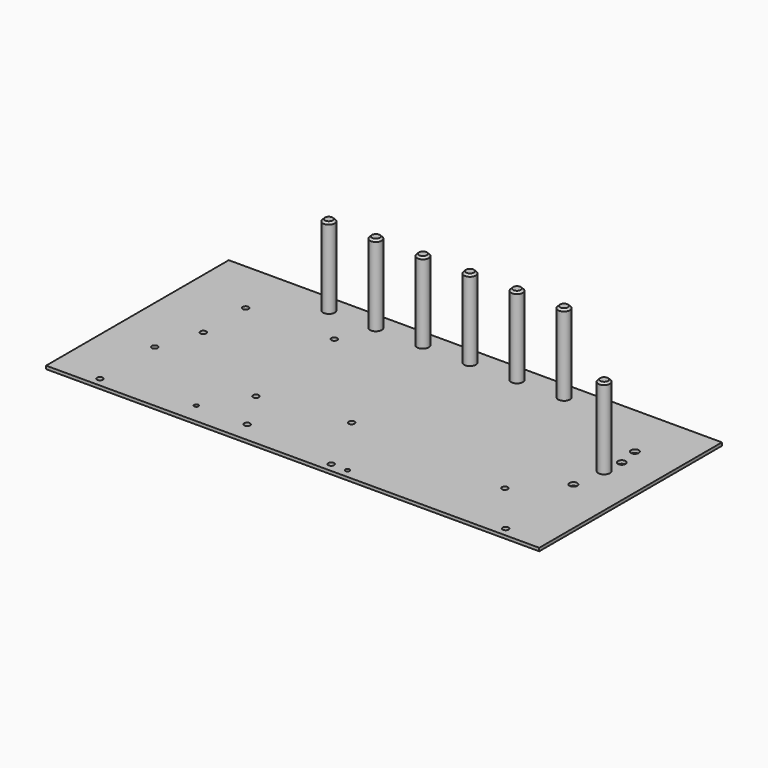
from build123d import *

# Parameters (mm, degrees)
F0_W     = 251.6
F0_H     = 116.5
F0_R     = 1.5
F0_R_2   = 1.1
F0_R_3   = 2
F1_DEPTH = 1.6
F2_R     = 3
F3_DEPTH = 41.1
F4_SIZE  = 1
F5_R     = 3
F6_DEPTH = 41.1
F7_SIZE  = 1


with BuildPart() as f1:
    # F0 (on Top) → F1 (new body)
    with BuildSketch(Plane.XY):
        with Locations((125.8, 58.25)):
            Rectangle(F0_W, F0_H)
        with Locations((23.8, 4.6)):
            Circle(F0_R, mode=Mode.SUBTRACT)
        with Locations((68.3, 10.5)):
            Circle(F0_R_2, mode=Mode.SUBTRACT)
        with Locations((94.2, 10.5)):
            Circle(F0_R, mode=Mode.SUBTRACT)
        with Locations((23.8, 39.6)):
            Circle(F0_R, mode=Mode.SUBTRACT)
        with Locations((81.8, 31.6)):
            Circle(F0_R, mode=Mode.SUBTRACT)
        with Locations((125.8, 37.6)):
            Circle(F0_R, mode=Mode.SUBTRACT)
        with Locations((141.8, 4.6)):
            Circle(F0_R, mode=Mode.SUBTRACT)
        with Locations((150.1, 4.6)):
            Circle(F0_R_2, mode=Mode.SUBTRACT)
        with Locations((230.8, 4.6)):
            Circle(F0_R, mode=Mode.SUBTRACT)
        with Locations((208.8, 31.6)):
            Circle(F0_R, mode=Mode.SUBTRACT)
        with Locations((228.046298, 51.2)):
            Circle(F0_R_3, mode=Mode.SUBTRACT)
        with Locations((31, 61.5)):
            Circle(F0_R, mode=Mode.SUBTRACT)
        with Locations((31, 88.5)):
            Circle(F0_R, mode=Mode.SUBTRACT)
        with Locations((75.4, 89.6)):
            Circle(F0_R, mode=Mode.SUBTRACT)
        with Locations((231.3, 78)):
            Circle(F0_R_3, mode=Mode.SUBTRACT)
        with Locations((229.5, 88.6)):
            Circle(F0_R_3, mode=Mode.SUBTRACT)
    extrude(amount=-F1_DEPTH)


with BuildPart() as f3:
    # F2 (on face) → F3 (new body)
    with BuildSketch(Plane.XY):
        with Locations((58.25, 107.5)):
            Circle(F2_R)
        with Locations((82.25, 107.5)):
            Circle(F2_R)
        with Locations((106.25, 107.5)):
            Circle(F2_R)
        with Locations((130.25, 107.5)):
            Circle(F2_R)
        with Locations((154.25, 107.5)):
            Circle(F2_R)
        with Locations((178.25, 107.5)):
            Circle(F2_R)
    extrude(amount=F3_DEPTH)

    # F4
    f4_edges = [f3.edges().sort_by_distance(p)[0] for p in [
        (55.25, 107.5, 41.1),
        (79.25, 107.5, 41.1),
        (103.25, 107.5, 41.1),
        (127.25, 107.5, 41.1),
        (151.25, 107.5, 41.1),
        (175.25, 107.5, 41.1),
    ]]
    chamfer(f4_edges, length=F4_SIZE)


with BuildPart() as f6:
    # F5 (on Top) → F6 (new body)
    with BuildSketch(Plane.XY):
        with Locations((230.4, 67.91)):
            Circle(F5_R)
    extrude(amount=F6_DEPTH)

    # F7
    f7_edges = [f6.edges().sort_by_distance(p)[0] for p in [
        (227.4, 67.91, 41.1),
    ]]
    chamfer(f7_edges, length=F7_SIZE)


solid = Compound([f1.part, f3.part, f6.part])
